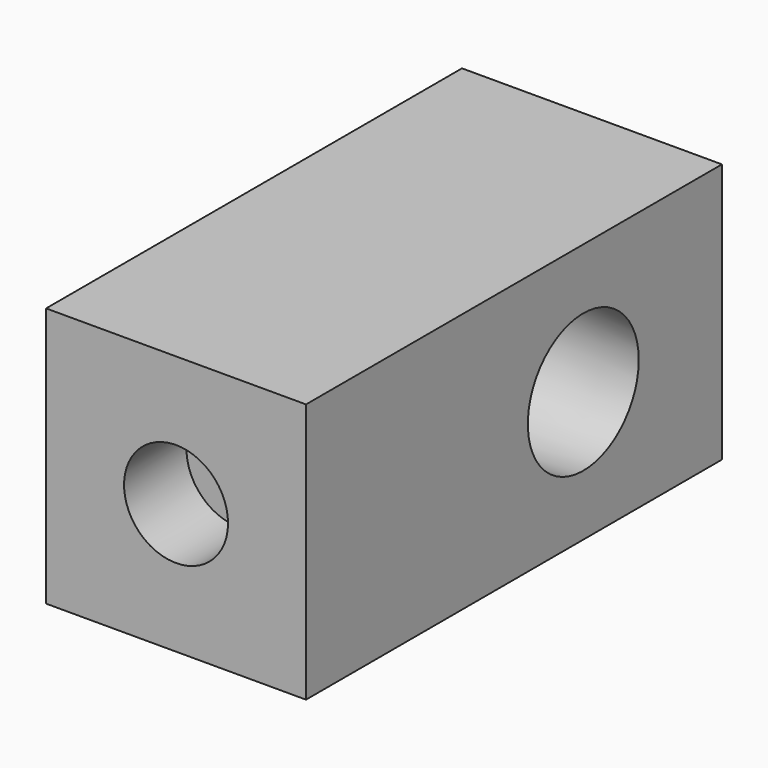
from build123d import *

# Parameters (mm, degrees)
F0_W     = 30
F0_H     = 30
F1_DEPTH = 60
F2_R     = 8
F3_DEPTH = 30.001
F3_TAPER = -3
F4_R     = 6
F5_DEPTH = 9


with BuildPart() as f1:
    # F0 (on Front) → F1 (new body)
    with BuildSketch(Plane.XZ):
        Rectangle(F0_W, F0_H)
    extrude(amount=F1_DEPTH)

    # F2 (on face) → F3 (cut, through all)
    with BuildSketch(Plane.YZ.offset(15)):
        with Locations((-20, 0)):
            Circle(F2_R)
    extrude(amount=-F3_DEPTH, taper=F3_TAPER, mode=Mode.SUBTRACT)

    # F4 (on face) → F5 (cut)
    with BuildSketch(Plane.XZ.offset(60)):
        Circle(F4_R)
    extrude(amount=-F5_DEPTH, mode=Mode.SUBTRACT)


solid = f1.part
